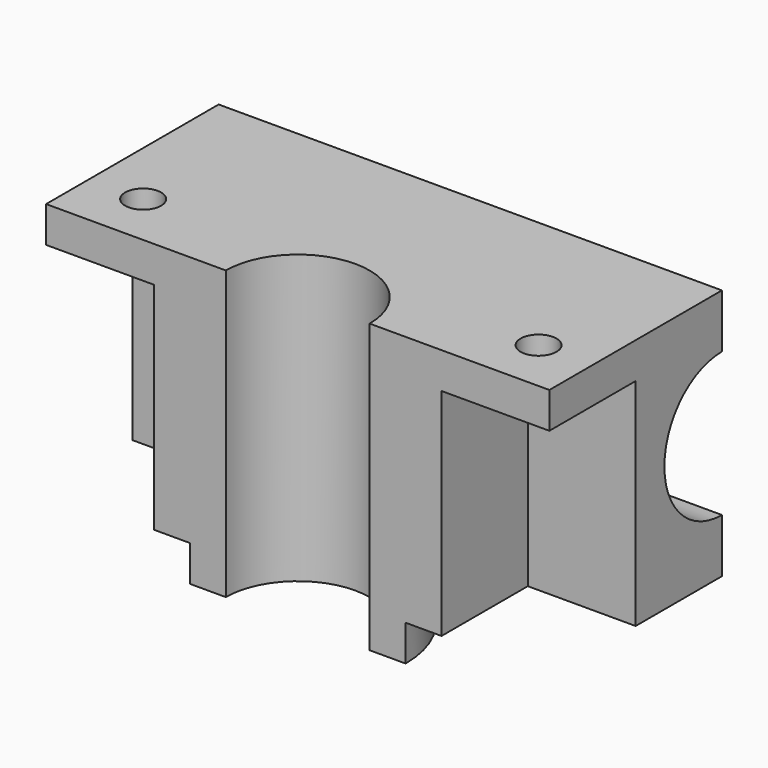
from build123d import *

# Parameters (mm, degrees)
F0_W      = 140
F0_H      = 70
F1_DEPTH  = 60
F2_W      = 30
F2_H      = 60
F3_DEPTH  = 30
F4_W      = 30
F4_H      = 60
F5_DEPTH  = 30
F7_DEPTH  = 148
F9_DEPTH  = 269.3
F10_DEPTH = 10
F11_R     = 5
F12_DEPTH = 25
F13_DEPTH = 25


with BuildPart() as f1:
    # F0 (on Front) → F1 (new body)
    with BuildSketch(Plane.XZ):
        Rectangle(F0_W, F0_H)
    extrude(amount=F1_DEPTH)

    # F2 (on face) → F3 (cut)
    with BuildSketch(Plane.XZ.offset(60)):
        with Locations((55, -5)):
            Rectangle(F2_W, F2_H)
    extrude(amount=-F3_DEPTH, mode=Mode.SUBTRACT)

    # F4 (on face) → F5 (cut)
    with BuildSketch(Plane.XZ.offset(60)):
        with Locations((-55, -5)):
            Rectangle(F4_W, F4_H)
    extrude(amount=-F5_DEPTH, mode=Mode.SUBTRACT)

    # F6 (on face) → F7 (cut)
    with BuildSketch(Plane.YZ.offset(70)):
        with BuildLine():
            Line((0, -20), (0, 20))
            ThreePointArc((0, 20), (-20, 0), (0, -20))
        make_face()
    extrude(amount=-F7_DEPTH, mode=Mode.SUBTRACT)

    # F8 (on face) → F9 (cut)
    with BuildSketch(Plane(origin=(0, 0, -35), x_dir=(1, 0, 0), z_dir=(0, 0, -1))):
        with BuildLine():
            ThreePointArc((-20, 60), (0, 40), (20, 60))
            Line((20, 60), (-20, 60))
        make_face()
    extrude(amount=-F9_DEPTH, mode=Mode.SUBTRACT)

    # F8 (on face) → F10 (join)
    with BuildSketch(Plane(origin=(0, 0, -35), x_dir=(1, 0, 0), z_dir=(0, 0, -1))):
        with BuildLine():
            Line((30, 60), (20, 60))
            ThreePointArc((20, 60), (0, 40), (-20, 60))
            Line((-20, 60), (-30, 60))
            ThreePointArc((-30, 60), (0, 30), (30, 60))
        make_face()
    extrude(amount=F10_DEPTH)

    # F11 (on face) → F12 (cut)
    with BuildSketch(Plane(origin=(0, 0, 25), x_dir=(1, 0, 0), z_dir=(0, 0, -1))):
        with Locations((55, 45)):
            Circle(F11_R)
    extrude(amount=-F12_DEPTH, mode=Mode.SUBTRACT)

    # F11 (on face) → F13 (cut)
    with BuildSketch(Plane(origin=(0, 0, 25), x_dir=(1, 0, 0), z_dir=(0, 0, -1))):
        with Locations((55, 45)):
            Circle(F11_R)
        with Locations((-55, 45)):
            Circle(F11_R)
    extrude(amount=-F13_DEPTH, mode=Mode.SUBTRACT)


solid = f1.part
